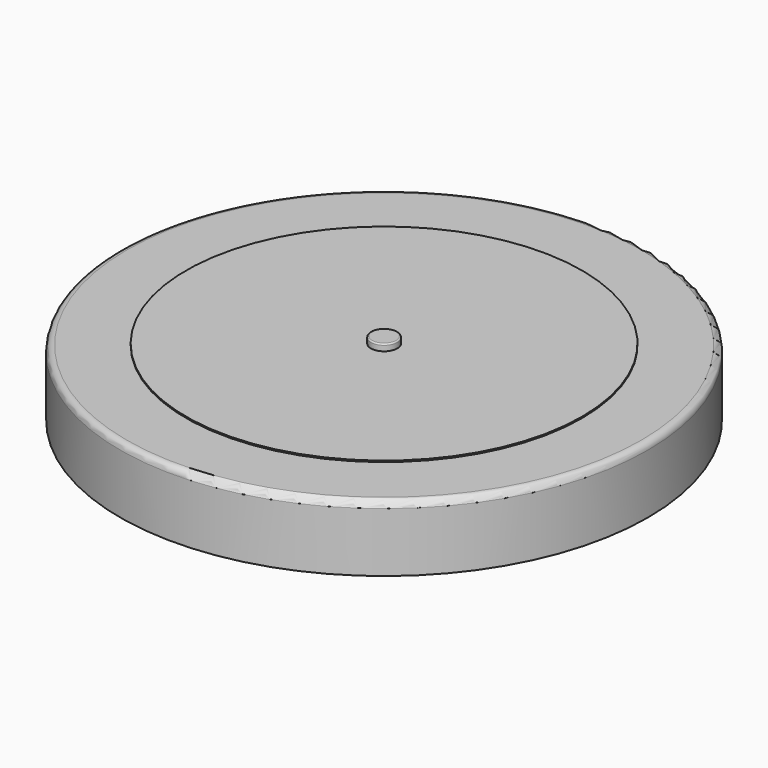
from build123d import *

# Parameters (mm, degrees)
F0_R     = 20
F1_DEPTH = 5
F2_R     = 15
F3_DEPTH = 0.1
F4_R     = 0.5
F5_R     = 1
F6_DEPTH = 0.5
F7_R     = 0.1


with BuildPart() as f1:
    # F0 (on Top) → F1 (new body)
    with BuildSketch(Plane.XY):
        Circle(F0_R)
    extrude(amount=F1_DEPTH)

    # F2 (on face) → F3 (join)
    with BuildSketch(Plane.XY.offset(5)):
        Circle(F2_R)
    extrude(amount=F3_DEPTH)

    # F4
    f4_edges = [f1.edges().sort_by_distance(p)[0] for p in [
        (-20, 0, 5),
    ]]
    fillet(f4_edges, radius=F4_R)

    # F5 (on face) → F6 (join)
    with BuildSketch(Plane.XY.offset(5.1)):
        Circle(F5_R)
    extrude(amount=F6_DEPTH)

    # F7
    f7_edges = [f1.edges().sort_by_distance(p)[0] for p in [
        (-1, 0, 5.6),
    ]]
    fillet(f7_edges, radius=F7_R)


solid = f1.part
